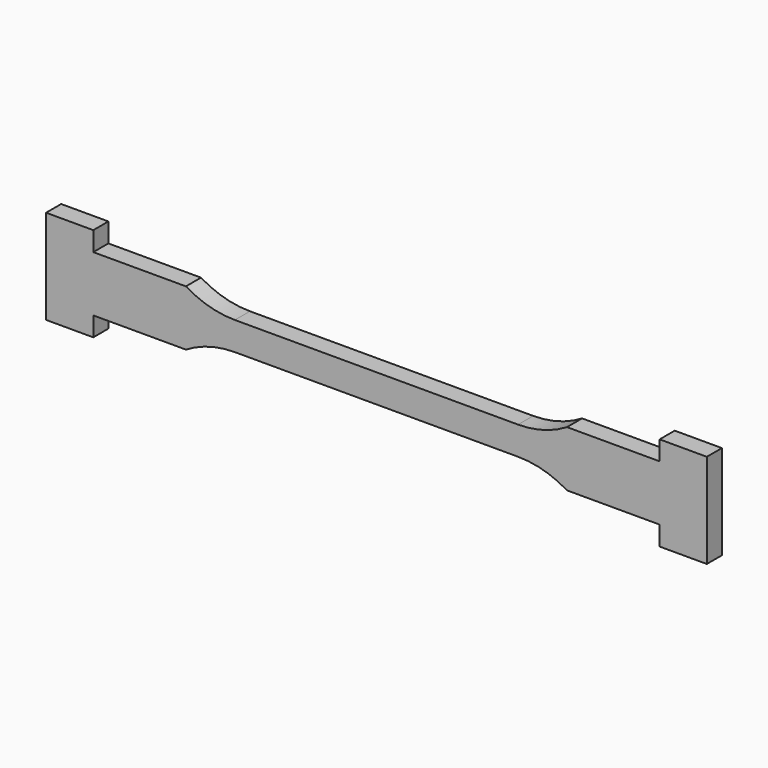
from build123d import *

# Parameters (mm, degrees)
F1_DEPTH = 2


with BuildPart() as f1:
    # F0 (on Front) → F1 (new body)
    with BuildSketch(Plane.XZ):
        with BuildLine():
            Line((35, -5), (35, 5))
            Line((35, 5), (30, 5))
            Line((30, 5), (30, 2.95))
            Line((30, 2.95), (20.18628, 2.95))
            ThreePointArc((20.18628, 2.95), (17.692582, 1.86932), (15, 1.5))
            Line((15, 1.5), (-15, 1.5))
            ThreePointArc((-15, 1.5), (-17.692582, 1.86932), (-20.18628, 2.95))
            Line((-20.18628, 2.95), (-30, 2.95))
            Line((-30, 2.95), (-30, 5))
            Line((-30, 5), (-35, 5))
            Line((-35, 5), (-35, -5))
            Line((-35, -5), (-30, -5))
            Line((-30, -5), (-30, -2.95))
            Line((-30, -2.95), (-20.18628, -2.95))
            ThreePointArc((-20.18628, -2.95), (-17.692582, -1.86932), (-15, -1.5))
            Line((-15, -1.5), (15, -1.5))
            ThreePointArc((15, -1.5), (17.692582, -1.86932), (20.18628, -2.95))
            Line((20.18628, -2.95), (30, -2.95))
            Line((30, -2.95), (30, -5))
            Line((30, -5), (35, -5))
        make_face()
    extrude(amount=F1_DEPTH)


solid = f1.part
